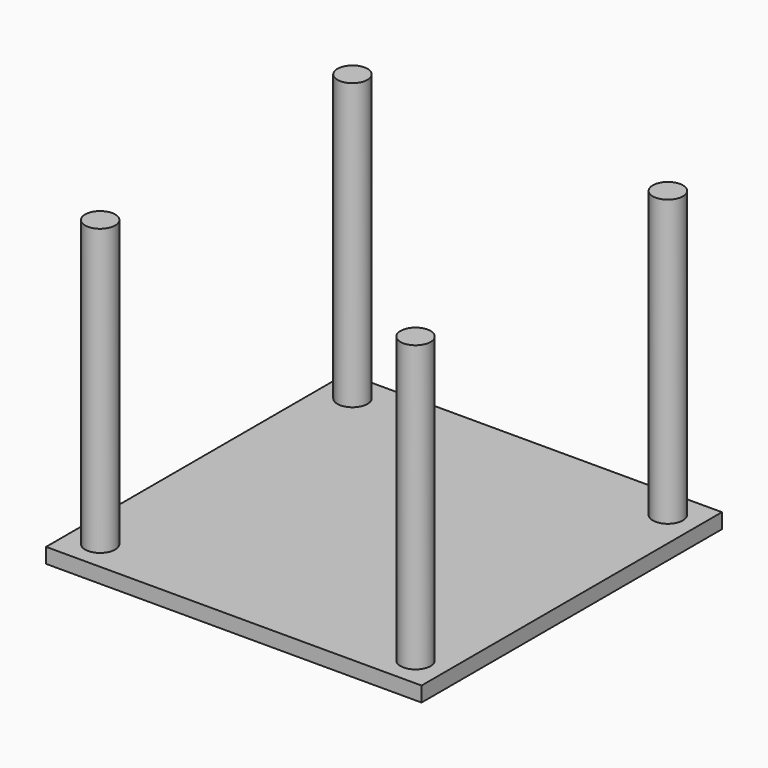
from build123d import *

# Parameters (mm, degrees)
BOX_W             = 100
BOX_H             = 100
BOX_DEPTH         = 4
CYLINDER_R        = 4
CYLINDER_DEPTH    = 80
CYLINDER001_R     = 4
CYLINDER001_DEPTH = 80
CYLINDER002_R     = 4
CYLINDER002_DEPTH = 80
CYLINDER003_R     = 4
CYLINDER003_DEPTH = 80


with BuildPart() as cube:
    # Box → Box (new body)
    with BuildSketch(Plane.XY.offset(80)):
        with Locations((50, 50)):
            Rectangle(BOX_W, BOX_H)
    extrude(amount=BOX_DEPTH)


with BuildPart() as cylindre:
    # Cylinder → Cylinder (new body)
    with BuildSketch(Plane(origin=(8, 8, 80), x_dir=(1, 0, 0), z_dir=(0, 0, 1))):
        Circle(CYLINDER_R)
    extrude(amount=CYLINDER_DEPTH)


with BuildPart() as cylindre001:
    # Cylinder001 → Cylinder001 (new body)
    with BuildSketch(Plane(origin=(92, 8, 80), x_dir=(1, 0, 0), z_dir=(0, 0, 1))):
        Circle(CYLINDER001_R)
    extrude(amount=CYLINDER001_DEPTH)


with BuildPart() as cylindre002:
    # Cylinder002 → Cylinder002 (new body)
    with BuildSketch(Plane(origin=(92, 92, 80), x_dir=(1, 0, 0), z_dir=(0, 0, 1))):
        Circle(CYLINDER002_R)
    extrude(amount=CYLINDER002_DEPTH)


with BuildPart() as cylindre003:
    # Cylinder003 → Cylinder003 (new body)
    with BuildSketch(Plane(origin=(8, 92, 80), x_dir=(1, 0, 0), z_dir=(0, 0, 1))):
        Circle(CYLINDER003_R)
    extrude(amount=CYLINDER003_DEPTH)


solid = Compound([cube.part, cylindre.part, cylindre001.part, cylindre002.part, cylindre003.part])
